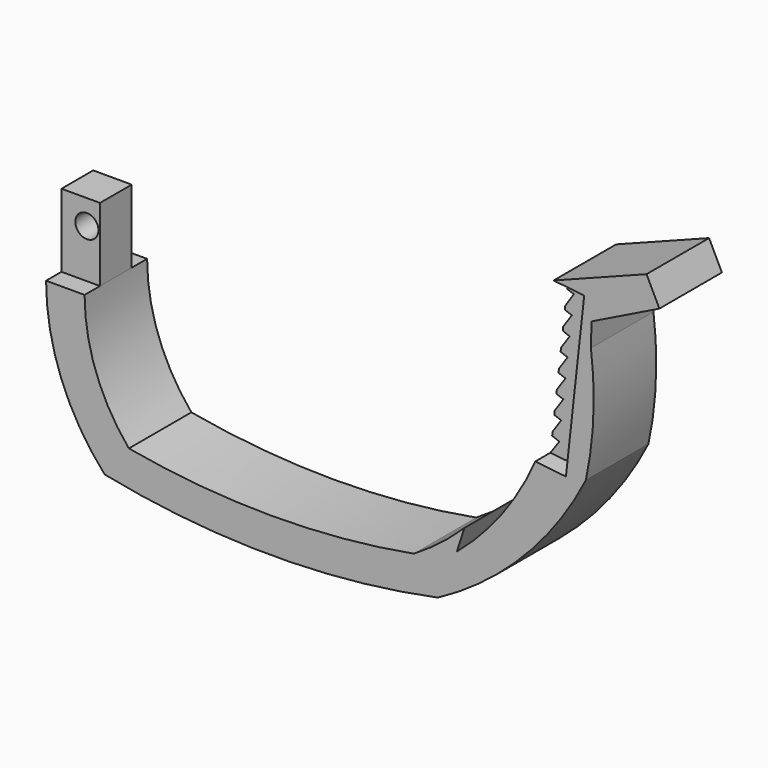
from build123d import *

# Parameters (mm, degrees)
F1_DEPTH = 10.15
F2_W     = 1.8519068835
F2_H     = 21.5889067106
F2_W_2   = 2.4580931165
F3_DEPTH = 4
F5_DEPTH = 7.6929068835
F6_W     = 5
F6_H     = 5.15
F7_DEPTH = 9.5
F8_R     = 1.5
F9_DEPTH = 7.651


with BuildPart() as f1:
    # F0 (on Front) → F1 (new body)
    with BuildSketch(Plane.XZ):
        with BuildLine():
            ThreePointArc((-18.5, -15.6787953926), (-22.7673477806, -8.35), (-24.2502499979, 0))
            Line((-24.2502499979, 0), (-29.2502499979, 0))
            ThreePointArc((-29.2502499979, 0), (-27.2813970489, -10.55), (-21.6398876928, -19.6797455671))
            ThreePointArc((-21.6398876928, -19.6797455671), (0, -21.8765954826), (21.6398876928, -19.6797455671))
            ThreePointArc((21.6398876928, -19.6797455671), (32.7568623734, -11.3164689916), (40.8481571207, 0))
            ThreePointArc((40.8481571207, 0), (41.8214250715, 7.632604285), (41.4990372956, 15.3202544329))
            Line((41.4990372956, 15.3202544329), (41.5767828027, 18.3806335645))
            Line((41.5767828027, 18.3806335645), (50.389803946, 22.7065682411))
            Line((50.389803946, 22.7065682411), (48.7227849662, 26.10270679))
            Line((48.7227849662, 26.10270679), (36.6513244808, 21.4579887688))
            Line((36.6513244808, 21.4579887688), (34.277380304, 0))
            ThreePointArc((34.277380304, 0), (29.9691571864, -7.3960863272), (24.0930236738, -13.6197455671))
            Line((24.0930236738, -13.6197455671), (25.0645451381, -10.5997455671))
            ThreePointArc((25.0645451381, -10.5997455671), (21.92981042, -13.3299594699), (18.5, -15.6787953926))
            ThreePointArc((18.5, -15.6787953926), (0, -17.3512801115), (-18.5, -15.6787953926))
        make_face()
    extrude(amount=F1_DEPTH)

    # F2 (on face) → F3 (cut)
    with BuildSketch(Plane(origin=(33.8629158132, 0, -3.7463283568), x_dir=(0, -1, 0), z_dir=(-0.9939358698, 0, 0.1099612967))):
        with Locations((0.9259534418, 14.5636385419)):
            Rectangle(F2_W, F2_H)
        with Locations((8.9209534418, 14.5636385419)):
            Rectangle(F2_W_2, F2_H)
    extrude(amount=-F3_DEPTH, mode=Mode.SUBTRACT)

    # F4 (on face) → F5 (cut, through all)
    with BuildSketch(Plane.XZ.offset(7.6919068835)):
        Polygon((34.4986446734, 2), (34.277380304, 0), (35.4295624031, 1.6347710575), align=None)
        Polygon((36.2071527972, 17.4431382552), (36.4265479737, 19.4262426935), (36.379591068, 19.4431382552), align=None)
        Polygon((35.9315717956, 14.9521723361), (36.1512704613, 16.9380200021), (36.1125353235, 16.9521723361), align=None)
        Polygon((35.6560050027, 12.4613348501), (35.8756791772, 14.4469611397), (35.8362903057, 14.4613348501), align=None)
        Polygon((35.3804528293, 9.9706295076), (35.6001020466, 11.9560302114), (35.5600452879, 11.9706295076), align=None)
        Polygon((35.2964822054, 9.4777310046), (35.1046580216, 7.4777310046), (35.324757133, 9.4671982825), align=None)
        Polygon((35.0074181049, 6.9872777462), (34.8291337367, 4.9872777462), (35.0487360064, 6.9722540912), align=None)
        Polygon((34.7311730871, 4.4969679349), (34.5536253217, 2.4969679349), (34.7732012529, 4.4817062071), align=None)
        Polygon((37.0518071993, 16.6089984104), (36.1512704613, 16.9380200021), (35.9315717956, 14.9521723361), align=None)
        Polygon((36.7756964321, 14.1185285934), (35.8756791772, 14.4469611397), (35.6560050027, 12.4613348501), align=None)
        Polygon((36.4995883451, 11.628198721), (35.6001020466, 11.9560302114), (35.3804528293, 9.9706295076), align=None)
        Polygon((35.324757133, 9.4671982825), (35.1046580216, 7.4777310046), (36.2335759695, 9.128653252), align=None)
        Polygon((35.0487360064, 6.9722540912), (34.8291337367, 4.9872777462), (35.9472190993, 6.645555504), align=None)
        Polygon((34.7732012529, 4.4817062071), (34.5536253217, 2.4969679349), (35.6711189912, 4.1556444852), align=None)
        Polygon((37.5822422105, 21.0927598263), (36.6513244808, 21.4579887688), (36.4300601114, 19.4579887688), align=None)
        Polygon((37.320535459, 19.104577104), (36.4265479737, 19.4262426935), (36.2071527972, 17.4431382552), align=None)
    extrude(amount=-F5_DEPTH, mode=Mode.SUBTRACT)

    # F6 (on face) → F7 (join)
    with BuildSketch(Plane.XY):
        with Locations((-26.7502499979, -5.075)):
            Rectangle(F6_W, F6_H)
    extrude(amount=F7_DEPTH)

    # F8 (on face) → F9 (cut, through all)
    with BuildSketch(Plane(origin=(0, -2.5, 0), x_dir=(-1, 0, 0), z_dir=(0, 1, 0))):
        with Locations((25.9502499979, 6.3)):
            Circle(F8_R)
    extrude(amount=-F9_DEPTH, mode=Mode.SUBTRACT)


solid = f1.part
